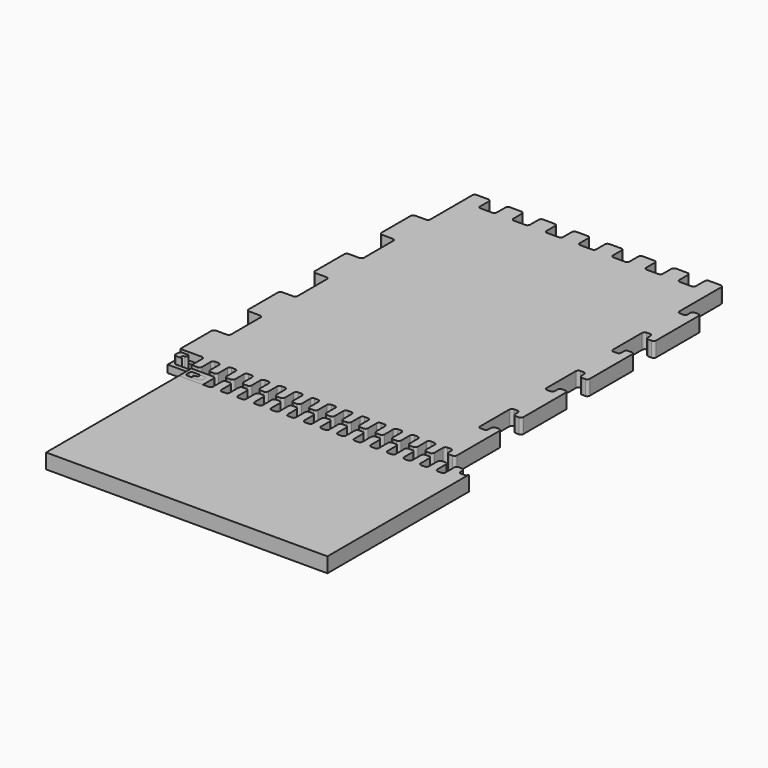
from build123d import *

# Parameters (mm, degrees)
F5_DEPTH = 18
F6_DEPTH = 9
F7_START = 9
F7_DEPTH = 9


with BuildPart() as f5:
    # F2 (on Top) → F5 (new body)
    with BuildSketch(Plane.XY):
        with BuildLine():
            Line((301.713436842, 728.7504296303), (301.713436842, 681.7504296303))
            ThreePointArc((301.713436842, 681.7504296303), (300.8347571855, 679.6291092867), (298.713436842, 678.7504296303))
            Line((298.713436842, 678.7504296303), (285.713436842, 678.7504296303))
            ThreePointArc((285.713436842, 678.7504296303), (283.5921164984, 677.8717499738), (282.713436842, 675.7504296303))
            Line((282.713436842, 675.7504296303), (282.713436842, 631.7504296303))
            ThreePointArc((282.713436842, 631.7504296303), (283.5921164984, 629.6291092867), (285.713436842, 628.7504296303))
            Line((285.713436842, 628.7504296303), (298.713436842, 628.7504296303))
            ThreePointArc((298.713436842, 628.7504296303), (300.8347571855, 627.8717499738), (301.713436842, 625.7504296303))
            Line((301.713436842, 625.7504296303), (301.713436842, 581.7504296303))
            ThreePointArc((301.713436842, 581.7504296303), (300.8347571855, 579.6291092867), (298.713436842, 578.7504296303))
            Line((298.713436842, 578.7504296303), (285.713436842, 578.7504296303))
            ThreePointArc((285.713436842, 578.7504296303), (283.5921164984, 577.8717499738), (282.713436842, 575.7504296303))
            Line((282.713436842, 575.7504296303), (282.713436842, 531.7504296303))
            ThreePointArc((282.713436842, 531.7504296303), (283.5921164984, 529.6291092867), (285.713436842, 528.7504296303))
            Line((285.713436842, 528.7504296303), (298.713436842, 528.7504296303))
            ThreePointArc((298.713436842, 528.7504296303), (300.8347571855, 527.8717499738), (301.713436842, 525.7504296303))
            Line((301.713436842, 525.7504296303), (301.713436842, 481.7504296303))
            ThreePointArc((301.713436842, 481.7504296303), (300.8347571855, 479.6291092867), (298.713436842, 478.7504296303))
            Line((298.713436842, 478.7504296303), (285.713436842, 478.7504296303))
            ThreePointArc((285.713436842, 478.7504296303), (283.5921164984, 477.8717499738), (282.713436842, 475.7504296303))
            Line((282.713436842, 475.7504296303), (282.713436842, 431.7504296303))
            ThreePointArc((282.713436842, 431.7504296303), (283.5921164984, 429.6291092867), (285.713436842, 428.7504296303))
            Line((285.713436842, 428.7504296303), (298.713436842, 428.7504296303))
            ThreePointArc((298.713436842, 428.7504296303), (300.8347571855, 427.8717499738), (301.713436842, 425.7504296303))
            Line((301.713436842, 425.7504296303), (301.713436842, 381.7504296303))
            ThreePointArc((301.713436842, 381.7504296303), (300.8347571855, 379.6291092867), (298.713436842, 378.7504296303))
            Line((298.713436842, 378.7504296303), (285.713436842, 378.7504296303))
            ThreePointArc((285.713436842, 378.7504296303), (283.5921164984, 377.8717499738), (282.713436842, 375.7504296303))
            Line((282.713436842, 375.7504296303), (282.713436842, 328.7504296303))
            Line((282.713436842, 328.7504296303), (298.713436842, 328.7504296303))
            Line((298.713436842, 328.7504296303), (301.713436842, 328.7504296303))
            Line((301.713436842, 328.7504296303), (308.713436842, 328.7504296303))
            ThreePointArc((308.713436842, 328.7504296303), (310.8347571855, 327.8717499738), (311.713436842, 325.7504296303))
            Line((311.713436842, 325.7504296303), (311.713436842, 312.7504296303))
            Line((311.713436842, 312.7504296303), (311.713436842, 309.7504296303))
            Line((311.713436842, 309.7504296303), (314.713436842, 309.7504296303))
            Line((314.713436842, 309.7504296303), (318.713436842, 309.7504296303))
            ThreePointArc((318.713436842, 309.7504296303), (320.8347571855, 310.6291092867), (321.713436842, 312.7504296303))
            Line((321.713436842, 312.7504296303), (321.713436842, 325.7504296303))
            ThreePointArc((321.713436842, 325.7504296303), (322.5921164984, 327.8717499738), (324.713436842, 328.7504296303))
            Line((324.713436842, 328.7504296303), (328.713436842, 328.7504296303))
            ThreePointArc((328.713436842, 328.7504296303), (330.8347571855, 327.8717499738), (331.713436842, 325.7504296303))
            Line((331.713436842, 325.7504296303), (331.713436842, 312.7504296303))
            ThreePointArc((331.713436842, 312.7504296303), (332.5921164984, 310.6291092867), (334.713436842, 309.7504296303))
            Line((334.713436842, 309.7504296303), (338.713436842, 309.7504296303))
            ThreePointArc((338.713436842, 309.7504296303), (340.8347571855, 310.6291092867), (341.713436842, 312.7504296303))
            Line((341.713436842, 312.7504296303), (341.713436842, 325.7504296303))
            ThreePointArc((341.713436842, 325.7504296303), (342.5921164984, 327.8717499738), (344.713436842, 328.7504296303))
            Line((344.713436842, 328.7504296303), (348.713436842, 328.7504296303))
            ThreePointArc((348.713436842, 328.7504296303), (350.8347571855, 327.8717499738), (351.713436842, 325.7504296303))
            Line((351.713436842, 325.7504296303), (351.713436842, 312.7504296303))
            ThreePointArc((351.713436842, 312.7504296303), (352.5921164984, 310.6291092867), (354.713436842, 309.7504296303))
            Line((354.713436842, 309.7504296303), (358.713436842, 309.7504296303))
            ThreePointArc((358.713436842, 309.7504296303), (360.8347571855, 310.6291092867), (361.713436842, 312.7504296303))
            Line((361.713436842, 312.7504296303), (361.713436842, 325.7504296303))
            ThreePointArc((361.713436842, 325.7504296303), (362.5921164984, 327.8717499738), (364.713436842, 328.7504296303))
            Line((364.713436842, 328.7504296303), (368.713436842, 328.7504296303))
            ThreePointArc((368.713436842, 328.7504296303), (370.8347571855, 327.8717499738), (371.713436842, 325.7504296303))
            Line((371.713436842, 325.7504296303), (371.713436842, 312.7504296303))
            ThreePointArc((371.713436842, 312.7504296303), (372.5921164984, 310.6291092867), (374.713436842, 309.7504296303))
            Line((374.713436842, 309.7504296303), (378.713436842, 309.7504296303))
            ThreePointArc((378.713436842, 309.7504296303), (380.8347571855, 310.6291092867), (381.713436842, 312.7504296303))
            Line((381.713436842, 312.7504296303), (381.713436842, 325.7504296303))
            ThreePointArc((381.713436842, 325.7504296303), (382.5921164984, 327.8717499738), (384.713436842, 328.7504296303))
            Line((384.713436842, 328.7504296303), (388.713436842, 328.7504296303))
            ThreePointArc((388.713436842, 328.7504296303), (390.8347571855, 327.8717499738), (391.713436842, 325.7504296303))
            Line((391.713436842, 325.7504296303), (391.713436842, 312.7504296303))
            ThreePointArc((391.713436842, 312.7504296303), (392.5921164984, 310.6291092867), (394.713436842, 309.7504296303))
            Line((394.713436842, 309.7504296303), (398.713436842, 309.7504296303))
            ThreePointArc((398.713436842, 309.7504296303), (400.8347571855, 310.6291092867), (401.713436842, 312.7504296303))
            Line((401.713436842, 312.7504296303), (401.713436842, 325.7504296303))
            ThreePointArc((401.713436842, 325.7504296303), (402.5921164984, 327.8717499738), (404.713436842, 328.7504296303))
            Line((404.713436842, 328.7504296303), (408.713436842, 328.7504296303))
            ThreePointArc((408.713436842, 328.7504296303), (410.8347571855, 327.8717499738), (411.713436842, 325.7504296303))
            Line((411.713436842, 325.7504296303), (411.713436842, 312.7504296303))
            ThreePointArc((411.713436842, 312.7504296303), (412.5921164984, 310.6291092867), (414.713436842, 309.7504296303))
            Line((414.713436842, 309.7504296303), (418.713436842, 309.7504296303))
            ThreePointArc((418.713436842, 309.7504296303), (420.8347571855, 310.6291092867), (421.713436842, 312.7504296303))
            Line((421.713436842, 312.7504296303), (421.713436842, 325.7504296303))
            ThreePointArc((421.713436842, 325.7504296303), (422.5921164984, 327.8717499738), (424.713436842, 328.7504296303))
            Line((424.713436842, 328.7504296303), (428.713436842, 328.7504296303))
            ThreePointArc((428.713436842, 328.7504296303), (430.8347571855, 327.8717499738), (431.713436842, 325.7504296303))
            Line((431.713436842, 325.7504296303), (431.713436842, 312.7504296303))
            ThreePointArc((431.713436842, 312.7504296303), (432.5921164984, 310.6291092867), (434.713436842, 309.7504296303))
            Line((434.713436842, 309.7504296303), (438.713436842, 309.7504296303))
            ThreePointArc((438.713436842, 309.7504296303), (440.8347571855, 310.6291092867), (441.713436842, 312.7504296303))
            Line((441.713436842, 312.7504296303), (441.713436842, 325.7504296303))
            ThreePointArc((441.713436842, 325.7504296303), (442.5921164984, 327.8717499738), (444.713436842, 328.7504296303))
            Line((444.713436842, 328.7504296303), (448.713436842, 328.7504296303))
            ThreePointArc((448.713436842, 328.7504296303), (450.8347571855, 327.8717499738), (451.713436842, 325.7504296303))
            Line((451.713436842, 325.7504296303), (451.713436842, 312.7504296303))
            ThreePointArc((451.713436842, 312.7504296303), (452.5921164984, 310.6291092867), (454.713436842, 309.7504296303))
            Line((454.713436842, 309.7504296303), (458.713436842, 309.7504296303))
            ThreePointArc((458.713436842, 309.7504296303), (460.8347571855, 310.6291092867), (461.713436842, 312.7504296303))
            Line((461.713436842, 312.7504296303), (461.713436842, 325.7504296303))
            ThreePointArc((461.713436842, 325.7504296303), (462.5921164984, 327.8717499738), (464.713436842, 328.7504296303))
            Line((464.713436842, 328.7504296303), (468.713436842, 328.7504296303))
            ThreePointArc((468.713436842, 328.7504296303), (470.8347571855, 327.8717499738), (471.713436842, 325.7504296303))
            Line((471.713436842, 325.7504296303), (471.713436842, 312.7504296303))
            ThreePointArc((471.713436842, 312.7504296303), (472.5921164984, 310.6291092867), (474.713436842, 309.7504296303))
            Line((474.713436842, 309.7504296303), (478.713436842, 309.7504296303))
            ThreePointArc((478.713436842, 309.7504296303), (480.8347571855, 310.6291092867), (481.713436842, 312.7504296303))
            Line((481.713436842, 312.7504296303), (481.713436842, 325.7504296303))
            ThreePointArc((481.713436842, 325.7504296303), (482.5921164984, 327.8717499738), (484.713436842, 328.7504296303))
            Line((484.713436842, 328.7504296303), (488.713436842, 328.7504296303))
            ThreePointArc((488.713436842, 328.7504296303), (490.8347571855, 327.8717499738), (491.713436842, 325.7504296303))
            Line((491.713436842, 325.7504296303), (491.713436842, 312.7504296303))
            ThreePointArc((491.713436842, 312.7504296303), (492.5921164984, 310.6291092867), (494.713436842, 309.7504296303))
            Line((494.713436842, 309.7504296303), (498.713436842, 309.7504296303))
            ThreePointArc((498.713436842, 309.7504296303), (500.8347571855, 310.6291092867), (501.713436842, 312.7504296303))
            Line((501.713436842, 312.7504296303), (501.713436842, 325.7504296303))
            ThreePointArc((501.713436842, 325.7504296303), (502.5921164984, 327.8717499738), (504.713436842, 328.7504296303))
            Line((504.713436842, 328.7504296303), (508.713436842, 328.7504296303))
            ThreePointArc((508.713436842, 328.7504296303), (510.8347571855, 327.8717499738), (511.713436842, 325.7504296303))
            Line((511.713436842, 325.7504296303), (511.713436842, 312.7504296303))
            ThreePointArc((511.713436842, 312.7504296303), (512.5921164984, 310.6291092867), (514.713436842, 309.7504296303))
            Line((514.713436842, 309.7504296303), (518.713436842, 309.7504296303))
            ThreePointArc((518.713436842, 309.7504296303), (520.8347571855, 310.6291092867), (521.713436842, 312.7504296303))
            Line((521.713436842, 312.7504296303), (521.713436842, 325.7504296303))
            ThreePointArc((521.713436842, 325.7504296303), (522.5921164984, 327.8717499738), (524.713436842, 328.7504296303))
            Line((524.713436842, 328.7504296303), (528.713436842, 328.7504296303))
            ThreePointArc((528.713436842, 328.7504296303), (530.8347571855, 327.8717499738), (531.713436842, 325.7504296303))
            Line((531.713436842, 325.7504296303), (531.713436842, 312.7504296303))
            ThreePointArc((531.713436842, 312.7504296303), (532.5921164984, 310.6291092867), (534.713436842, 309.7504296303))
            Line((534.713436842, 309.7504296303), (538.713436842, 309.7504296303))
            ThreePointArc((538.713436842, 309.7504296303), (540.8347571855, 310.6291092867), (541.713436842, 312.7504296303))
            Line((541.713436842, 312.7504296303), (541.713436842, 325.7504296303))
            ThreePointArc((541.713436842, 325.7504296303), (542.5921164984, 327.8717499738), (544.713436842, 328.7504296303))
            Line((544.713436842, 328.7504296303), (548.713436842, 328.7504296303))
            ThreePointArc((548.713436842, 328.7504296303), (550.8347571855, 327.8717499738), (551.713436842, 325.7504296303))
            Line((551.713436842, 325.7504296303), (551.713436842, 312.7504296303))
            ThreePointArc((551.713436842, 312.7504296303), (552.5921164984, 310.6291092867), (554.713436842, 309.7504296303))
            Line((554.713436842, 309.7504296303), (558.713436842, 309.7504296303))
            ThreePointArc((558.713436842, 309.7504296303), (560.8347571855, 310.6291092867), (561.713436842, 312.7504296303))
            Line((561.713436842, 312.7504296303), (561.713436842, 325.7504296303))
            ThreePointArc((561.713436842, 325.7504296303), (562.5921164984, 327.8717499738), (564.713436842, 328.7504296303))
            Line((564.713436842, 328.7504296303), (568.713436842, 328.7504296303))
            ThreePointArc((568.713436842, 328.7504296303), (570.8347571855, 327.8717499738), (571.713436842, 325.7504296303))
            Line((571.713436842, 325.7504296303), (571.713436842, 312.7504296303))
            ThreePointArc((571.713436842, 312.7504296303), (572.5921164984, 310.6291092867), (574.713436842, 309.7504296303))
            Line((574.713436842, 309.7504296303), (578.713436842, 309.7504296303))
            ThreePointArc((578.713436842, 309.7504296303), (580.8347571855, 310.6291092867), (581.713436842, 312.7504296303))
            Line((581.713436842, 312.7504296303), (581.713436842, 325.7504296303))
            ThreePointArc((581.713436842, 325.7504296303), (582.5921164984, 327.8717499738), (584.713436842, 328.7504296303))
            Line((584.713436842, 328.7504296303), (588.713436842, 328.7504296303))
            ThreePointArc((588.713436842, 328.7504296303), (590.8347571855, 327.8717499738), (591.713436842, 325.7504296303))
            Line((591.713436842, 325.7504296303), (591.713436842, 312.7504296303))
            ThreePointArc((591.713436842, 312.7504296303), (592.5921164984, 310.6291092867), (594.713436842, 309.7504296303))
            Line((594.713436842, 309.7504296303), (598.713436842, 309.7504296303))
            ThreePointArc((598.713436842, 309.7504296303), (600.8347571855, 310.6291092867), (601.713436842, 312.7504296303))
            Line((601.713436842, 312.7504296303), (601.713436842, 325.7504296303))
            ThreePointArc((601.713436842, 325.7504296303), (602.5921164984, 327.8717499738), (604.713436842, 328.7504296303))
            Line((604.713436842, 328.7504296303), (608.713436842, 328.7504296303))
            ThreePointArc((608.713436842, 328.7504296303), (610.8347571855, 327.8717499738), (611.713436842, 325.7504296303))
            Line((611.713436842, 325.7504296303), (611.713436842, 321.7504296303))
            ThreePointArc((611.713436842, 321.7504296303), (612.5921164984, 319.6291092867), (614.713436842, 318.7504296303))
            Line((614.713436842, 318.7504296303), (618.713436842, 318.7504296303))
            ThreePointArc((618.713436842, 318.7504296303), (620.8347571855, 319.6291092867), (621.713436842, 321.7504296303))
            Line((621.713436842, 321.7504296303), (621.713436842, 328.7504296303))
            Line((621.713436842, 328.7504296303), (621.713436842, 378.7504296303))
            Line((621.713436842, 378.7504296303), (621.713436842, 385.7504296303))
            ThreePointArc((621.713436842, 385.7504296303), (620.8347571855, 387.8717499738), (618.713436842, 388.7504296303))
            Line((618.713436842, 388.7504296303), (614.713436842, 388.7504296303))
            ThreePointArc((614.713436842, 388.7504296303), (612.5921164984, 387.8717499738), (611.713436842, 385.7504296303))
            Line((611.713436842, 385.7504296303), (611.713436842, 381.7504296303))
            ThreePointArc((611.713436842, 381.7504296303), (610.8347571855, 379.6291092867), (608.713436842, 378.7504296303))
            Line((608.713436842, 378.7504296303), (604.713436842, 378.7504296303))
            ThreePointArc((604.713436842, 378.7504296303), (602.5921164984, 379.6291092867), (601.713436842, 381.7504296303))
            Line((601.713436842, 381.7504296303), (601.713436842, 425.7504296303))
            ThreePointArc((601.713436842, 425.7504296303), (602.5921164984, 427.8717499738), (604.713436842, 428.7504296303))
            Line((604.713436842, 428.7504296303), (608.713436842, 428.7504296303))
            ThreePointArc((608.713436842, 428.7504296303), (610.8347571855, 427.8717499738), (611.713436842, 425.7504296303))
            Line((611.713436842, 425.7504296303), (611.713436842, 421.7504296303))
            ThreePointArc((611.713436842, 421.7504296303), (612.5921164984, 419.6291092867), (614.713436842, 418.7504296303))
            Line((614.713436842, 418.7504296303), (618.713436842, 418.7504296303))
            ThreePointArc((618.713436842, 418.7504296303), (620.8347571855, 419.6291092867), (621.713436842, 421.7504296303))
            Line((621.713436842, 421.7504296303), (621.713436842, 428.7504296303))
            Line((621.713436842, 428.7504296303), (621.713436842, 478.7504296303))
            Line((621.713436842, 478.7504296303), (621.713436842, 485.7504296303))
            ThreePointArc((621.713436842, 485.7504296303), (620.8347571855, 487.8717499738), (618.713436842, 488.7504296303))
            Line((618.713436842, 488.7504296303), (614.713436842, 488.7504296303))
            ThreePointArc((614.713436842, 488.7504296303), (612.5921164984, 487.8717499738), (611.713436842, 485.7504296303))
            Line((611.713436842, 485.7504296303), (611.713436842, 481.7504296303))
            ThreePointArc((611.713436842, 481.7504296303), (610.8347571855, 479.6291092867), (608.713436842, 478.7504296303))
            Line((608.713436842, 478.7504296303), (604.713436842, 478.7504296303))
            ThreePointArc((604.713436842, 478.7504296303), (602.5921164984, 479.6291092867), (601.713436842, 481.7504296303))
            Line((601.713436842, 481.7504296303), (601.713436842, 525.7504296303))
            ThreePointArc((601.713436842, 525.7504296303), (602.5921164984, 527.8717499738), (604.713436842, 528.7504296303))
            Line((604.713436842, 528.7504296303), (608.713436842, 528.7504296303))
            ThreePointArc((608.713436842, 528.7504296303), (610.8347571855, 527.8717499738), (611.713436842, 525.7504296303))
            Line((611.713436842, 525.7504296303), (611.713436842, 521.7504296303))
            ThreePointArc((611.713436842, 521.7504296303), (612.5921164984, 519.6291092867), (614.713436842, 518.7504296303))
            Line((614.713436842, 518.7504296303), (618.713436842, 518.7504296303))
            ThreePointArc((618.713436842, 518.7504296303), (620.8347571855, 519.6291092867), (621.713436842, 521.7504296303))
            Line((621.713436842, 521.7504296303), (621.713436842, 528.7504296303))
            Line((621.713436842, 528.7504296303), (621.713436842, 578.7504296303))
            Line((621.713436842, 578.7504296303), (621.713436842, 585.7504296303))
            ThreePointArc((621.713436842, 585.7504296303), (620.8347571855, 587.8717499738), (618.713436842, 588.7504296303))
            Line((618.713436842, 588.7504296303), (614.713436842, 588.7504296303))
            ThreePointArc((614.713436842, 588.7504296303), (612.5921164984, 587.8717499738), (611.713436842, 585.7504296303))
            Line((611.713436842, 585.7504296303), (611.713436842, 581.7504296303))
            ThreePointArc((611.713436842, 581.7504296303), (610.8347571855, 579.6291092867), (608.713436842, 578.7504296303))
            Line((608.713436842, 578.7504296303), (604.713436842, 578.7504296303))
            ThreePointArc((604.713436842, 578.7504296303), (602.5921164984, 579.6291092867), (601.713436842, 581.7504296303))
            Line((601.713436842, 581.7504296303), (601.713436842, 625.7504296303))
            ThreePointArc((601.713436842, 625.7504296303), (602.5921164984, 627.8717499738), (604.713436842, 628.7504296303))
            Line((604.713436842, 628.7504296303), (608.713436842, 628.7504296303))
            ThreePointArc((608.713436842, 628.7504296303), (610.8347571855, 627.8717499738), (611.713436842, 625.7504296303))
            Line((611.713436842, 625.7504296303), (611.713436842, 621.7504296303))
            ThreePointArc((611.713436842, 621.7504296303), (612.5921164984, 619.6291092867), (614.713436842, 618.7504296303))
            Line((614.713436842, 618.7504296303), (618.713436842, 618.7504296303))
            ThreePointArc((618.713436842, 618.7504296303), (620.8347571855, 619.6291092867), (621.713436842, 621.7504296303))
            Line((621.713436842, 621.7504296303), (621.713436842, 628.7504296303))
            Line((621.713436842, 628.7504296303), (621.713436842, 678.7504296303))
            Line((621.713436842, 678.7504296303), (621.713436842, 685.7504296303))
            ThreePointArc((621.713436842, 685.7504296303), (620.8347571855, 687.8717499738), (618.713436842, 688.7504296303))
            Line((618.713436842, 688.7504296303), (614.713436842, 688.7504296303))
            ThreePointArc((614.713436842, 688.7504296303), (612.5921164984, 687.8717499738), (611.713436842, 685.7504296303))
            Line((611.713436842, 685.7504296303), (611.713436842, 681.7504296303))
            ThreePointArc((611.713436842, 681.7504296303), (610.8347571855, 679.6291092867), (608.713436842, 678.7504296303))
            Line((608.713436842, 678.7504296303), (604.713436842, 678.7504296303))
            ThreePointArc((604.713436842, 678.7504296303), (602.5921164984, 679.6291092867), (601.713436842, 681.7504296303))
            Line((601.713436842, 681.7504296303), (601.713436842, 728.7504296303))
            Line((601.713436842, 728.7504296303), (601.713436842, 744.7504296303))
            ThreePointArc((601.713436842, 744.7504296303), (600.8347571855, 746.8717499738), (598.713436842, 747.7504296303))
            Line((598.713436842, 747.7504296303), (584.713436842, 747.7504296303))
            ThreePointArc((584.713436842, 747.7504296303), (582.5921164984, 746.8717499738), (581.713436842, 744.7504296303))
            Line((581.713436842, 744.7504296303), (581.713436842, 731.7504417714))
            ThreePointArc((581.713436842, 731.7504417714), (580.8347578296, 729.6291220719), (578.7134386636, 728.7504417714))
            Line((578.7134386636, 728.7504417714), (564.7134386636, 728.7504332703))
            ThreePointArc((564.7134386636, 728.7504332703), (562.5921171425, 729.6291122826), (561.713436842, 731.7504332703))
            Line((561.713436842, 731.7504332703), (561.713436842, 744.7504296303))
            ThreePointArc((561.713436842, 744.7504296303), (560.8347571855, 746.8717499738), (558.713436842, 747.7504296303))
            Line((558.713436842, 747.7504296303), (544.713436842, 747.7504296303))
            ThreePointArc((544.713436842, 747.7504296303), (542.5921164984, 746.8717499738), (541.713436842, 744.7504296303))
            Line((541.713436842, 744.7504296303), (541.713436842, 731.7504417714))
            ThreePointArc((541.713436842, 731.7504417714), (540.8347578296, 729.6291220719), (538.7134386636, 728.7504417714))
            Line((538.7134386636, 728.7504417714), (524.7134386636, 728.7504332703))
            ThreePointArc((524.7134386636, 728.7504332703), (522.5921171425, 729.6291122826), (521.713436842, 731.7504332703))
            Line((521.713436842, 731.7504332703), (521.713436842, 744.7504296303))
            ThreePointArc((521.713436842, 744.7504296303), (520.8347571855, 746.8717499738), (518.713436842, 747.7504296303))
            Line((518.713436842, 747.7504296303), (504.713436842, 747.7504296303))
            ThreePointArc((504.713436842, 747.7504296303), (502.5921164984, 746.8717499738), (501.713436842, 744.7504296303))
            Line((501.713436842, 744.7504296303), (501.713436842, 731.7504417714))
            ThreePointArc((501.713436842, 731.7504417714), (500.8347578296, 729.6291220719), (498.7134386636, 728.7504417714))
            Line((498.7134386636, 728.7504417714), (484.7134386636, 728.7504332703))
            ThreePointArc((484.7134386636, 728.7504332703), (482.5921171425, 729.6291122826), (481.713436842, 731.7504332703))
            Line((481.713436842, 731.7504332703), (481.713436842, 744.7504296303))
            ThreePointArc((481.713436842, 744.7504296303), (480.8347571855, 746.8717499738), (478.713436842, 747.7504296303))
            Line((478.713436842, 747.7504296303), (464.713436842, 747.7504296303))
            ThreePointArc((464.713436842, 747.7504296303), (462.5921164984, 746.8717499738), (461.713436842, 744.7504296303))
            Line((461.713436842, 744.7504296303), (461.713436842, 731.7504417714))
            ThreePointArc((461.713436842, 731.7504417714), (460.8347578296, 729.6291220719), (458.7134386636, 728.7504417714))
            Line((458.7134386636, 728.7504417714), (444.7134386636, 728.7504332703))
            ThreePointArc((444.7134386636, 728.7504332703), (442.5921171425, 729.6291122826), (441.713436842, 731.7504332703))
            Line((441.713436842, 731.7504332703), (441.713436842, 744.7504296303))
            ThreePointArc((441.713436842, 744.7504296303), (440.8347571855, 746.8717499738), (438.713436842, 747.7504296303))
            Line((438.713436842, 747.7504296303), (424.713436842, 747.7504296303))
            ThreePointArc((424.713436842, 747.7504296303), (422.5921164984, 746.8717499738), (421.713436842, 744.7504296303))
            Line((421.713436842, 744.7504296303), (421.713436842, 731.7504417714))
            ThreePointArc((421.713436842, 731.7504417714), (420.8347578296, 729.6291220719), (418.7134386636, 728.7504417714))
            Line((418.7134386636, 728.7504417714), (404.7134386636, 728.7504332703))
            ThreePointArc((404.7134386636, 728.7504332703), (402.5921171425, 729.6291122826), (401.713436842, 731.7504332703))
            Line((401.713436842, 731.7504332703), (401.713436842, 744.7504296303))
            ThreePointArc((401.713436842, 744.7504296303), (400.8347571855, 746.8717499738), (398.713436842, 747.7504296303))
            Line((398.713436842, 747.7504296303), (384.713436842, 747.7504296303))
            ThreePointArc((384.713436842, 747.7504296303), (382.5921164984, 746.8717499738), (381.713436842, 744.7504296303))
            Line((381.713436842, 744.7504296303), (381.713436842, 731.7504417714))
            ThreePointArc((381.713436842, 731.7504417714), (380.8347578296, 729.6291220719), (378.7134386636, 728.7504417714))
            Line((378.7134386636, 728.7504417714), (364.7134386636, 728.7504332703))
            ThreePointArc((364.7134386636, 728.7504332703), (362.5921171425, 729.6291122826), (361.713436842, 731.7504332703))
            Line((361.713436842, 731.7504332703), (361.713436842, 744.7504296303))
            ThreePointArc((361.713436842, 744.7504296303), (360.8347571855, 746.8717499738), (358.713436842, 747.7504296303))
            Line((358.713436842, 747.7504296303), (344.713436842, 747.7504296303))
            ThreePointArc((344.713436842, 747.7504296303), (342.5921164984, 746.8717499738), (341.713436842, 744.7504296303))
            Line((341.713436842, 744.7504296303), (341.713436842, 731.7504417714))
            ThreePointArc((341.713436842, 731.7504417714), (340.8347578296, 729.6291220719), (338.7134386636, 728.7504417714))
            Line((338.7134386636, 728.7504417714), (324.7134386636, 728.7504332703))
            ThreePointArc((324.7134386636, 728.7504332703), (322.5921171425, 729.6291122826), (321.713436842, 731.7504332703))
            Line((321.713436842, 731.7504332703), (321.713436842, 744.7504296303))
            ThreePointArc((321.713436842, 744.7504296303), (320.8347571855, 746.8717499738), (318.713436842, 747.7504296303))
            Line((318.713436842, 747.7504296303), (304.713436842, 747.7504296303))
            ThreePointArc((304.713436842, 747.7504296303), (302.5921164984, 746.8717499738), (301.713436842, 744.7504296303))
            Line((301.713436842, 744.7504296303), (301.713436842, 728.7504296303))
        make_face()
    extrude(amount=F5_DEPTH)


with BuildPart() as f5b:
    # F2 (on Top) → F5, piece 2 (new body)
    with BuildSketch(Plane.XY):
        with BuildLine():
            Line((289.213436842, 314.7504296303), (295.713436842, 314.7504296303))
            ThreePointArc((295.713436842, 314.7504296303), (293.463436842, 317.0004296303), (295.713436842, 319.2504296303))
            ThreePointArc((295.713436842, 319.2504296303), (297.963436842, 321.5004296303), (295.713436842, 323.7504296303))
            Line((295.713436842, 323.7504296303), (289.213436842, 323.7504296303))
            ThreePointArc((289.213436842, 323.7504296303), (287.0921164984, 322.8717499738), (286.213436842, 320.7504296303))
            Line((286.213436842, 320.7504296303), (286.213436842, 317.7504296303))
            ThreePointArc((286.213436842, 317.7504296303), (287.0921164984, 315.6291092867), (289.213436842, 314.7504296303))
        make_face()
    extrude(amount=F5_DEPTH)


with BuildPart() as f5c:
    # F4 (on Top) → F5, piece 3 (new body)
    with BuildSketch(Plane.XY):
        with BuildLine():
            Line((316, 85), (635, 85))
            Line((635, 85), (635, 288))
            ThreePointArc((635, 288), (634.1213203436, 285.8786796564), (632, 285))
            Line((632, 285), (628, 285))
            ThreePointArc((628, 285), (625.8786796564, 285.8786796564), (625, 288))
            Line((625, 288), (625, 301))
            ThreePointArc((625, 301), (624.1213203436, 303.1213203436), (622, 304))
            Line((622, 304), (618, 304))
            ThreePointArc((618, 304), (615.8786796564, 303.1213203436), (615, 301))
            Line((615, 301), (615, 288))
            ThreePointArc((615, 288), (614.1213203436, 285.8786796564), (612, 285))
            Line((612, 285), (608, 285))
            ThreePointArc((608, 285), (605.8786796564, 285.8786796564), (605, 288))
            Line((605, 288), (605, 301))
            ThreePointArc((605, 301), (604.1213203436, 303.1213203436), (602, 304))
            Line((602, 304), (598, 304))
            ThreePointArc((598, 304), (595.8786796564, 303.1213203436), (595, 301))
            Line((595, 301), (595, 288))
            ThreePointArc((595, 288), (594.1213203436, 285.8786796564), (592, 285))
            Line((592, 285), (588, 285))
            ThreePointArc((588, 285), (585.8786796564, 285.8786796564), (585, 288))
            Line((585, 288), (585, 301))
            ThreePointArc((585, 301), (584.1213203436, 303.1213203436), (582, 304))
            Line((582, 304), (578, 304))
            ThreePointArc((578, 304), (575.8786796564, 303.1213203436), (575, 301))
            Line((575, 301), (575, 288))
            ThreePointArc((575, 288), (574.1213203436, 285.8786796564), (572, 285))
            Line((572, 285), (568, 285))
            ThreePointArc((568, 285), (565.8786796564, 285.8786796564), (565, 288))
            Line((565, 288), (565, 301))
            ThreePointArc((565, 301), (564.1213203436, 303.1213203436), (562, 304))
            Line((562, 304), (558, 304))
            ThreePointArc((558, 304), (555.8786796564, 303.1213203436), (555, 301))
            Line((555, 301), (555, 288))
            ThreePointArc((555, 288), (554.1213203436, 285.8786796564), (552, 285))
            Line((552, 285), (548, 285))
            ThreePointArc((548, 285), (545.8786796564, 285.8786796564), (545, 288))
            Line((545, 288), (545, 301))
            ThreePointArc((545, 301), (544.1213203436, 303.1213203436), (542, 304))
            Line((542, 304), (538, 304))
            ThreePointArc((538, 304), (535.8786796564, 303.1213203436), (535, 301))
            Line((535, 301), (535, 288))
            ThreePointArc((535, 288), (534.1213203436, 285.8786796564), (532, 285))
            Line((532, 285), (528, 285))
            ThreePointArc((528, 285), (525.8786796564, 285.8786796564), (525, 288))
            Line((525, 288), (525, 301))
            ThreePointArc((525, 301), (524.1213203436, 303.1213203436), (522, 304))
            Line((522, 304), (518, 304))
            ThreePointArc((518, 304), (515.8786796564, 303.1213203436), (515, 301))
            Line((515, 301), (515, 288))
            ThreePointArc((515, 288), (514.1213203436, 285.8786796564), (512, 285))
            Line((512, 285), (508, 285))
            ThreePointArc((508, 285), (505.8786796564, 285.8786796564), (505, 288))
            Line((505, 288), (505, 301))
            ThreePointArc((505, 301), (504.1213203436, 303.1213203436), (502, 304))
            Line((502, 304), (498, 304))
            ThreePointArc((498, 304), (495.8786796564, 303.1213203436), (495, 301))
            Line((495, 301), (495, 288))
            ThreePointArc((495, 288), (494.1213203436, 285.8786796564), (492, 285))
            Line((492, 285), (488, 285))
            ThreePointArc((488, 285), (485.8786796564, 285.8786796564), (485, 288))
            Line((485, 288), (485, 301))
            ThreePointArc((485, 301), (484.1213203436, 303.1213203436), (482, 304))
            Line((482, 304), (478, 304))
            ThreePointArc((478, 304), (475.8786796564, 303.1213203436), (475, 301))
            Line((475, 301), (475, 288))
            ThreePointArc((475, 288), (474.1213203436, 285.8786796564), (472, 285))
            Line((472, 285), (468, 285))
            ThreePointArc((468, 285), (465.8786796564, 285.8786796564), (465, 288))
            Line((465, 288), (465, 301))
            ThreePointArc((465, 301), (464.1213203436, 303.1213203436), (462, 304))
            Line((462, 304), (458, 304))
            ThreePointArc((458, 304), (455.8786796564, 303.1213203436), (455, 301))
            Line((455, 301), (455, 288))
            ThreePointArc((455, 288), (454.1213203436, 285.8786796564), (452, 285))
            Line((452, 285), (448, 285))
            ThreePointArc((448, 285), (445.8786796564, 285.8786796564), (445, 288))
            Line((445, 288), (445, 301))
            ThreePointArc((445, 301), (444.1213203436, 303.1213203436), (442, 304))
            Line((442, 304), (438, 304))
            ThreePointArc((438, 304), (435.8786796564, 303.1213203436), (435, 301))
            Line((435, 301), (435, 288))
            ThreePointArc((435, 288), (434.1213203436, 285.8786796564), (432, 285))
            Line((432, 285), (428, 285))
            ThreePointArc((428, 285), (425.8786796564, 285.8786796564), (425, 288))
            Line((425, 288), (425, 301))
            ThreePointArc((425, 301), (424.1213203436, 303.1213203436), (422, 304))
            Line((422, 304), (418, 304))
            ThreePointArc((418, 304), (415.8786796564, 303.1213203436), (415, 301))
            Line((415, 301), (415, 288))
            ThreePointArc((415, 288), (414.1213203436, 285.8786796564), (412, 285))
            Line((412, 285), (408, 285))
            ThreePointArc((408, 285), (405.8786796564, 285.8786796564), (405, 288))
            Line((405, 288), (405, 301))
            ThreePointArc((405, 301), (404.1213203436, 303.1213203436), (402, 304))
            Line((402, 304), (398, 304))
            ThreePointArc((398, 304), (395.8786796564, 303.1213203436), (395, 301))
            Line((395, 301), (395, 288))
            ThreePointArc((395, 288), (394.1213203436, 285.8786796564), (392, 285))
            Line((392, 285), (388, 285))
            ThreePointArc((388, 285), (385.8786796564, 285.8786796564), (385, 288))
            Line((385, 288), (385, 301))
            ThreePointArc((385, 301), (384.1213203436, 303.1213203436), (382, 304))
            Line((382, 304), (378, 304))
            ThreePointArc((378, 304), (375.8786796564, 303.1213203436), (375, 301))
            Line((375, 301), (375, 288))
            ThreePointArc((375, 288), (374.1213203436, 285.8786796564), (372, 285))
            Line((372, 285), (368, 285))
            ThreePointArc((368, 285), (365.8786796564, 285.8786796564), (365, 288))
            Line((365, 288), (365, 301))
            ThreePointArc((365, 301), (364.1213203436, 303.1213203436), (362, 304))
            Line((362, 304), (358, 304))
            ThreePointArc((358, 304), (355.8786796564, 303.1213203436), (355, 301))
            Line((355, 301), (355, 288))
            ThreePointArc((355, 288), (354.1213203436, 285.8786796564), (352, 285))
            Line((352, 285), (348, 285))
            Line((348, 285), (345, 285))
            Line((345, 285), (316, 285))
            Line((316, 285), (316, 85))
        make_face()
        with BuildLine():
            ThreePointArc((655, 298), (654.1213203436, 295.8786796564), (652, 295))
            Line((652, 295), (648, 295))
            ThreePointArc((648, 295), (645.8786796564, 295.8786796564), (645, 298))
            Line((645, 298), (645, 301))
            ThreePointArc((645, 301), (644.1213203436, 303.1213203436), (642, 304))
            Line((642, 304), (638, 304))
            ThreePointArc((638, 304), (635.8786796564, 303.1213203436), (635, 301))
            Line((635, 301), (635, 288))
            Line((635, 288), (635, 85))
            Line((635, 85), (655, 85))
            Line((655, 85), (655, 298))
        make_face()
    extrude(amount=F5_DEPTH)


with BuildPart() as f5d:
    # F4 (on Top) → F5, piece 4 (new body)
    with BuildSketch(Plane.XY):
        with BuildLine():
            ThreePointArc((338.5, 296), (337.6213203436, 298.1213203436), (335.5, 299))
            Line((335.5, 299), (329, 299))
            ThreePointArc((329, 299), (331.25, 296.75), (329, 294.5))
            ThreePointArc((329, 294.5), (326.75, 292.25), (329, 290))
            Line((329, 290), (335.5, 290))
            ThreePointArc((335.5, 290), (337.6213203436, 290.8786796564), (338.5, 293))
            Line((338.5, 293), (338.5, 296))
        make_face()
    extrude(amount=F5_DEPTH)


with BuildPart() as f6:
    # F2 (on Top) → F6 (new body)
    with BuildSketch(Plane.XY):
        with BuildLine():
            Line((298.713436842, 328.7504296303), (282.713436842, 328.7504296303))
            Line((282.713436842, 328.7504296303), (282.713436842, 309.7504296303))
            Line((282.713436842, 309.7504296303), (308.713436842, 309.7504296303))
            Line((308.713436842, 309.7504296303), (311.713436842, 309.7504296303))
            Line((311.713436842, 309.7504296303), (311.713436842, 312.7504296303))
            Line((311.713436842, 312.7504296303), (311.713436842, 325.7504296303))
            ThreePointArc((311.713436842, 325.7504296303), (310.8347571855, 327.8717499738), (308.713436842, 328.7504296303))
            Line((308.713436842, 328.7504296303), (301.713436842, 328.7504296303))
            Line((301.713436842, 328.7504296303), (298.713436842, 328.7504296303))
        make_face()
        with BuildLine():
            ThreePointArc((305.213436842, 317.7504296303), (304.3347571855, 315.6291092867), (302.213436842, 314.7504296303))
            Line((302.213436842, 314.7504296303), (295.713436842, 314.7504296303))
            Line((295.713436842, 314.7504296303), (289.213436842, 314.7504296303))
            ThreePointArc((289.213436842, 314.7504296303), (287.0921164984, 315.6291092867), (286.213436842, 317.7504296303))
            Line((286.213436842, 317.7504296303), (286.213436842, 320.7504296303))
            ThreePointArc((286.213436842, 320.7504296303), (287.0921164984, 322.8717499738), (289.213436842, 323.7504296303))
            Line((289.213436842, 323.7504296303), (295.713436842, 323.7504296303))
            Line((295.713436842, 323.7504296303), (302.213436842, 323.7504296303))
            ThreePointArc((302.213436842, 323.7504296303), (304.3347571855, 322.8717499738), (305.213436842, 320.7504296303))
            Line((305.213436842, 320.7504296303), (305.213436842, 317.7504296303))
        make_face(mode=Mode.SUBTRACT)
    extrude(amount=F6_DEPTH)


with BuildPart() as f7:
    # F4 (on Top) → F7 (new body)
    with BuildSketch(Plane.XY.offset(F7_START)):
        with BuildLine():
            Line((316, 304), (316, 285))
            Line((316, 285), (345, 285))
            Line((345, 285), (345, 288))
            Line((345, 288), (345, 301))
            ThreePointArc((345, 301), (344.1213203436, 303.1213203436), (342, 304))
            Line((342, 304), (316, 304))
        make_face()
        with BuildLine():
            Line((329, 299), (335.5, 299))
            ThreePointArc((335.5, 299), (337.6213203436, 298.1213203436), (338.5, 296))
            Line((338.5, 296), (338.5, 293))
            ThreePointArc((338.5, 293), (337.6213203436, 290.8786796564), (335.5, 290))
            Line((335.5, 290), (329, 290))
            Line((329, 290), (322.5, 290))
            ThreePointArc((322.5, 290), (320.3786796564, 290.8786796564), (319.5, 293))
            Line((319.5, 293), (319.5, 296))
            ThreePointArc((319.5, 296), (320.3786796564, 298.1213203436), (322.5, 299))
            Line((322.5, 299), (329, 299))
        make_face(mode=Mode.SUBTRACT)
    extrude(amount=F7_DEPTH)


solid = Compound([f5.part, f5b.part, f5c.part, f5d.part, f6.part, f7.part])
